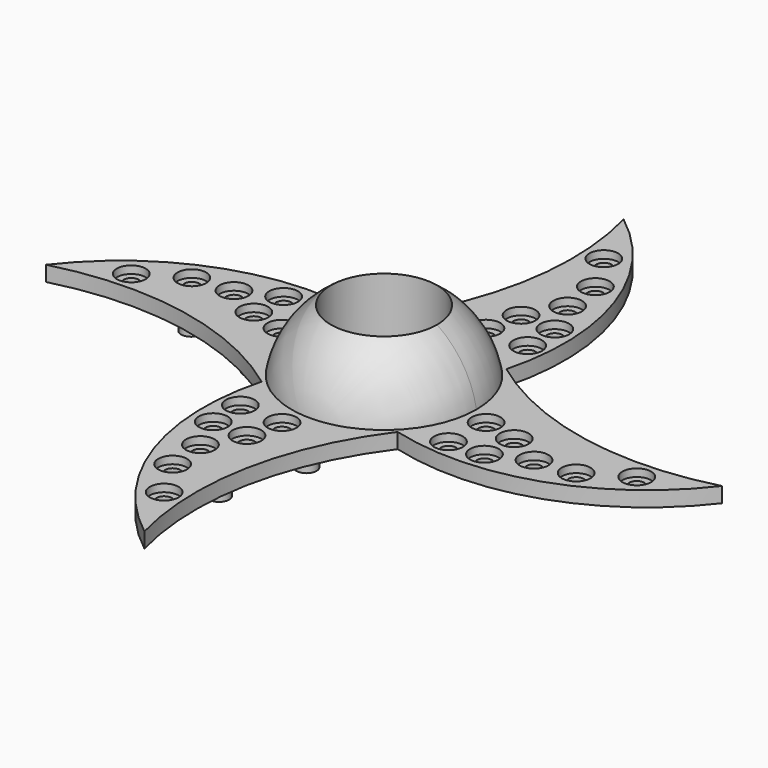
from build123d import *

# Parameters (mm, degrees)
F1_ANGLE  = 180
F2_R      = 11
F3_DEPTH  = 3.5
F4_R      = 10.5
F5_DEPTH  = 25
F6_R      = 17.5
F7_DEPTH  = 3
F8_R      = 2.84
F9_DEPTH  = 1.5
F10_R     = 1.5
F11_DEPTH = 25
F12_R     = 2
F13_DEPTH = 2.5


with BuildPart() as f1:
    # F0 (on Top) → F1 (revolve)
    with BuildSketch(Plane.XY):
        with BuildLine():
            ThreePointArc((0, -18.5), (13.081475, -13.081475), (18.5, 0))
            ThreePointArc((18.5, 0), (13.081475, 13.081475), (0, 18.5))
            Line((0, 18.5), (0, -18.5))
        make_face()
    revolve(axis=Axis((0, 0, 0), (0, -1, 0)), revolution_arc=F1_ANGLE)

    # F2 (on face) → F3 (cut)
    with BuildSketch(Plane(origin=(0, 0, 0), x_dir=(1, 0, 0), z_dir=(0, 0, -1))):
        Circle(F2_R)
    extrude(amount=-F3_DEPTH, mode=Mode.SUBTRACT)

    # F4 (on face) → F5 (cut)
    with BuildSketch(Plane(origin=(0, 0, 3.5), x_dir=(1, 0, 0), z_dir=(0, 0, -1))):
        Circle(F4_R)
    extrude(amount=-F5_DEPTH, mode=Mode.SUBTRACT)

    # F6 (on face) → F7 (join)
    with BuildSketch(Plane(origin=(0, 0, 0), x_dir=(1, 0, 0), z_dir=(0, 0, -1))):
        with BuildLine():
            ThreePointArc((13.435029, 13.435029), (2.776181, 37.480821), (3.703777, 63.766763))
            ThreePointArc((3.703777, 63.766763), (-12.505008, 41.202234), (-13.435029, 13.435029))
            ThreePointArc((-13.435029, 13.435029), (-37.480821, 2.776181), (-63.766763, 3.703777))
            ThreePointArc((-63.766763, 3.703777), (-41.202234, -12.505008), (-13.435029, -13.435029))
            ThreePointArc((-13.435029, -13.435029), (-2.776181, -37.480821), (-3.703777, -63.766763))
            ThreePointArc((-3.703777, -63.766763), (12.505008, -41.202234), (13.435029, -13.435029))
            ThreePointArc((13.435029, -13.435029), (37.480821, -2.776181), (63.766763, -3.703777))
            ThreePointArc((63.766763, -3.703777), (41.202234, 12.505008), (13.435029, 13.435029))
        make_face()
        Circle(F6_R, mode=Mode.SUBTRACT)
    extrude(amount=-F7_DEPTH)

    # F8 (on face) → F9 (cut)
    with BuildSketch(Plane.XY.offset(3)):
        with Locations((-11.08485, -21.599201)):
            Circle(F8_R)
        with Locations((-2.440276, -22.113062)):
            Circle(F8_R)
        with Locations((-10.892785, -28.53697)):
            Circle(F8_R)
        with Locations((-3.961728, -28.87507)):
            Circle(F8_R)
        with Locations((-7.655934, -35.751011)):
            Circle(F8_R)
        with Locations((-6.942718, -43.498125)):
            Circle(F8_R)
        with Locations((-2.119637, -51.609669)):
            Circle(F8_R)
        with Locations((21.599201, -11.08485)):
            Circle(F8_R)
        with Locations((22.113062, -2.440276)):
            Circle(F8_R)
        with Locations((28.53697, -10.892785)):
            Circle(F8_R)
        with Locations((28.87507, -3.961728)):
            Circle(F8_R)
        with Locations((35.751011, -7.655934)):
            Circle(F8_R)
        with Locations((43.498125, -6.942718)):
            Circle(F8_R)
        with Locations((51.609669, -2.119637)):
            Circle(F8_R)
        with Locations((11.08485, 21.599201)):
            Circle(F8_R)
        with Locations((2.440276, 22.113062)):
            Circle(F8_R)
        with Locations((10.892785, 28.53697)):
            Circle(F8_R)
        with Locations((3.961728, 28.87507)):
            Circle(F8_R)
        with Locations((7.655934, 35.751011)):
            Circle(F8_R)
        with Locations((6.942718, 43.498125)):
            Circle(F8_R)
        with Locations((2.119637, 51.609669)):
            Circle(F8_R)
        with Locations((-21.599201, 11.08485)):
            Circle(F8_R)
        with Locations((-22.113062, 2.440276)):
            Circle(F8_R)
        with Locations((-28.53697, 10.892785)):
            Circle(F8_R)
        with Locations((-28.87507, 3.961728)):
            Circle(F8_R)
        with Locations((-35.751011, 7.655934)):
            Circle(F8_R)
        with Locations((-43.498125, 6.942718)):
            Circle(F8_R)
        with Locations((-51.609669, 2.119637)):
            Circle(F8_R)
    extrude(amount=-F9_DEPTH, mode=Mode.SUBTRACT)

    # F10 (on face) → F11 (cut)
    with BuildSketch(Plane.XY.offset(3)):
        with Locations((-2.440276, -22.113062)):
            Circle(F10_R)
        with Locations((-22.113062, 2.440276)):
            Circle(F10_R)
        with Locations((2.440276, 22.113062)):
            Circle(F10_R)
        with Locations((22.113062, -2.440276)):
            Circle(F10_R)
        with Locations((-11.08485, -21.599201)):
            Circle(F10_R)
        with Locations((-10.892785, -28.53697)):
            Circle(F10_R)
        with Locations((-3.961728, -28.87507)):
            Circle(F10_R)
        with Locations((-7.655934, -35.751011)):
            Circle(F10_R)
        with Locations((-6.942718, -43.498125)):
            Circle(F10_R)
        with Locations((-2.119637, -51.609669)):
            Circle(F10_R)
        with Locations((21.599201, -11.08485)):
            Circle(F10_R)
        with Locations((28.53697, -10.892785)):
            Circle(F10_R)
        with Locations((28.87507, -3.961728)):
            Circle(F10_R)
        with Locations((35.751011, -7.655934)):
            Circle(F10_R)
        with Locations((43.498125, -6.942718)):
            Circle(F10_R)
        with Locations((51.609669, -2.119637)):
            Circle(F10_R)
        with Locations((11.08485, 21.599201)):
            Circle(F10_R)
        with Locations((10.892785, 28.53697)):
            Circle(F10_R)
        with Locations((3.961728, 28.87507)):
            Circle(F10_R)
        with Locations((7.655934, 35.751011)):
            Circle(F10_R)
        with Locations((6.942718, 43.498125)):
            Circle(F10_R)
        with Locations((2.119637, 51.609669)):
            Circle(F10_R)
        with Locations((-21.599201, 11.08485)):
            Circle(F10_R)
        with Locations((-28.53697, 10.892785)):
            Circle(F10_R)
        with Locations((-28.87507, 3.961728)):
            Circle(F10_R)
        with Locations((-35.751011, 7.655934)):
            Circle(F10_R)
        with Locations((-43.498125, 6.942718)):
            Circle(F10_R)
        with Locations((-51.609669, 2.119637)):
            Circle(F10_R)
    extrude(amount=-F11_DEPTH, mode=Mode.SUBTRACT)

    # F12 (on face) → F13 (join)
    with BuildSketch(Plane(origin=(0, 0, 0), x_dir=(1, 0, 0), z_dir=(0, 0, -1))):
        with Locations((-23.183173, 3.233931)):
            Circle(F12_R)
        with Locations((-39.104387, -1.314987)):
            Circle(F12_R)
        with Locations((-3.233931, -23.183173)):
            Circle(F12_R)
        with Locations((1.314987, -39.104387)):
            Circle(F12_R)
        with Locations((23.183173, -3.233931)):
            Circle(F12_R)
        with Locations((39.104387, 1.314987)):
            Circle(F12_R)
        with Locations((3.233931, 23.183173)):
            Circle(F12_R)
        with Locations((-1.314987, 39.104387)):
            Circle(F12_R)
    extrude(amount=F13_DEPTH)


solid = f1.part
